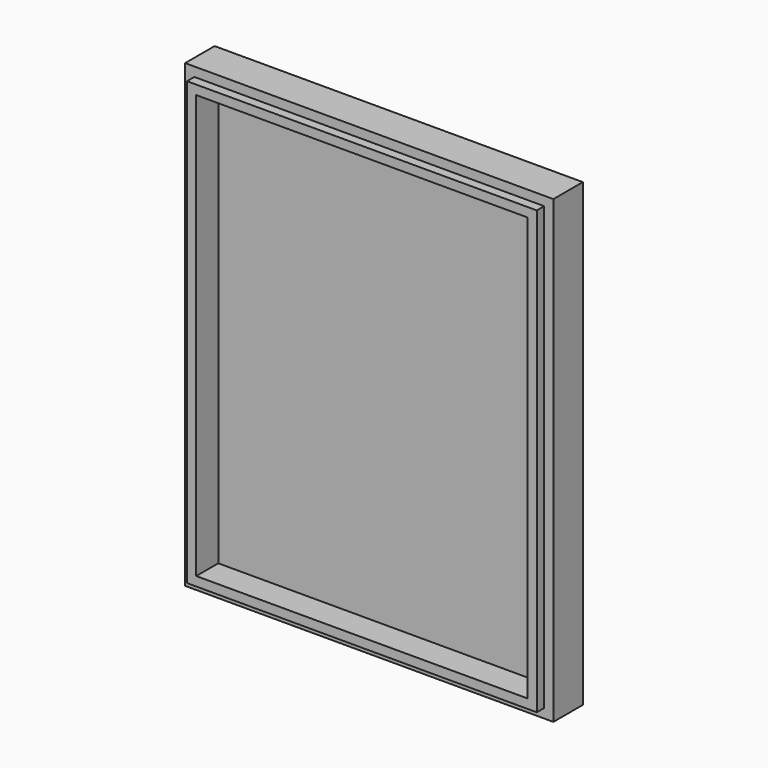
from build123d import *

# Parameters (mm, degrees)
F0_W     = 40
F0_H     = 50
F1_DEPTH = 2
F2_W     = 40
F2_H     = 50
F2_W_2   = 36
F2_H_2   = 46
F3_DEPTH = 2
F4_W     = 38
F4_H     = 48
F4_W_2   = 36
F4_H_2   = 46
F5_DEPTH = 1


with BuildPart() as f1:
    # F0 (on Front) → F1 (new body)
    with BuildSketch(Plane.XZ):
        Rectangle(F0_W, F0_H)
    extrude(amount=F1_DEPTH)

    # F2 (on face) → F3 (join)
    with BuildSketch(Plane.XZ.offset(2)):
        Rectangle(F2_W, F2_H)
        Rectangle(F2_W_2, F2_H_2, mode=Mode.SUBTRACT)
    extrude(amount=F3_DEPTH)

    # F4 (on face) → F5 (join)
    with BuildSketch(Plane.XZ.offset(4)):
        Rectangle(F4_W, F4_H)
        Rectangle(F4_W_2, F4_H_2, mode=Mode.SUBTRACT)
    extrude(amount=F5_DEPTH)


solid = f1.part
